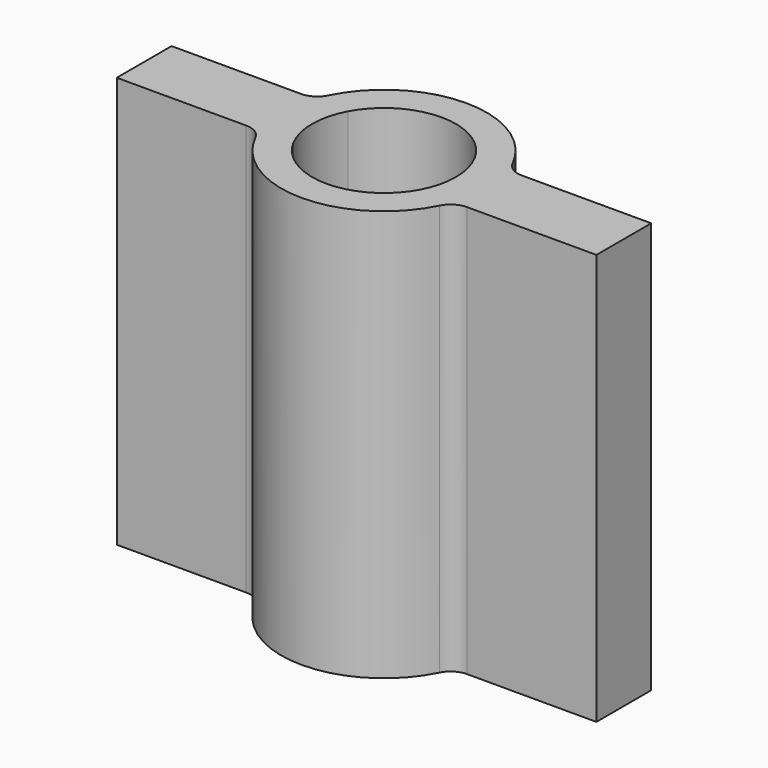
from build123d import *

# Parameters (mm, degrees)
F1_DEPTH = 6
F2_R     = 0.3


with BuildPart() as f1:
    # F0 (on Top) → F1 (new body)
    with BuildSketch(Plane.XY):
        with BuildLine():
            Line((-3.5, 0.5), (-3.5, -0.5))
            Line((-3.5, -0.5), (-1.4142135624, -0.5))
            ThreePointArc((-1.4142135624, -0.5), (-1.5, 0), (-1.4142135624, 0.5))
            Line((-1.4142135624, 0.5), (-3.5, 0.5))
        make_face()
        with BuildLine():
            ThreePointArc((-1.4142135624, 0.5), (-1.5, 0), (-1.4142135624, -0.5))
            Line((-1.4142135624, -0.5), (-0.9233092656, -0.5))
            ThreePointArc((-0.9233092656, -0.5), (-1.05, 0), (-0.9233092656, 0.5))
            Line((-0.9233092656, 0.5), (-1.4142135624, 0.5))
        make_face()
        with BuildLine():
            Line((-0.9233092656, -0.5), (-1.4142135624, -0.5))
            ThreePointArc((-1.4142135624, -0.5), (0, -1.5), (1.4142135624, -0.5))
            Line((1.4142135624, -0.5), (0.9233092656, -0.5))
            ThreePointArc((0.9233092656, -0.5), (0, -1.05), (-0.9233092656, -0.5))
        make_face()
        with BuildLine():
            ThreePointArc((1.4142135624, 0.5), (0, 1.5), (-1.4142135624, 0.5))
            Line((-1.4142135624, 0.5), (-0.9233092656, 0.5))
            ThreePointArc((-0.9233092656, 0.5), (0, 1.05), (0.9233092656, 0.5))
            Line((0.9233092656, 0.5), (1.4142135624, 0.5))
        make_face()
        with BuildLine():
            ThreePointArc((1.5, 0), (1.4783978395, -0.2536529681), (1.4142135624, -0.5))
            Line((1.4142135624, -0.5), (3.5, -0.5))
            Line((3.5, -0.5), (3.5, 0.5))
            Line((3.5, 0.5), (1.4142135624, 0.5))
            ThreePointArc((1.4142135624, 0.5), (1.4783978395, 0.2536529681), (1.5, 0))
        make_face()
        with BuildLine():
            Line((0.9233092656, -0.5), (1.4142135624, -0.5))
            ThreePointArc((1.4142135624, -0.5), (1.4783978395, -0.2536529681), (1.5, 0))
            ThreePointArc((1.5, 0), (1.4783978395, 0.2536529681), (1.4142135624, 0.5))
            Line((1.4142135624, 0.5), (0.9233092656, 0.5))
            ThreePointArc((0.9233092656, 0.5), (1.0178346449, 0.2579004373), (1.05, 0))
            ThreePointArc((1.05, 0), (1.0178346449, -0.2579004373), (0.9233092656, -0.5))
        make_face()
    extrude(amount=F1_DEPTH)

    # F2
    f2_edges = [f1.edges().sort_by_distance(p)[0] for p in [
        (1.414214, -0.5, 3),
        (-1.414214, -0.5, 3),
        (1.414214, 0.5, 3),
        (-1.414214, 0.5, 3),
    ]]
    fillet(f2_edges, radius=F2_R)


solid = f1.part
